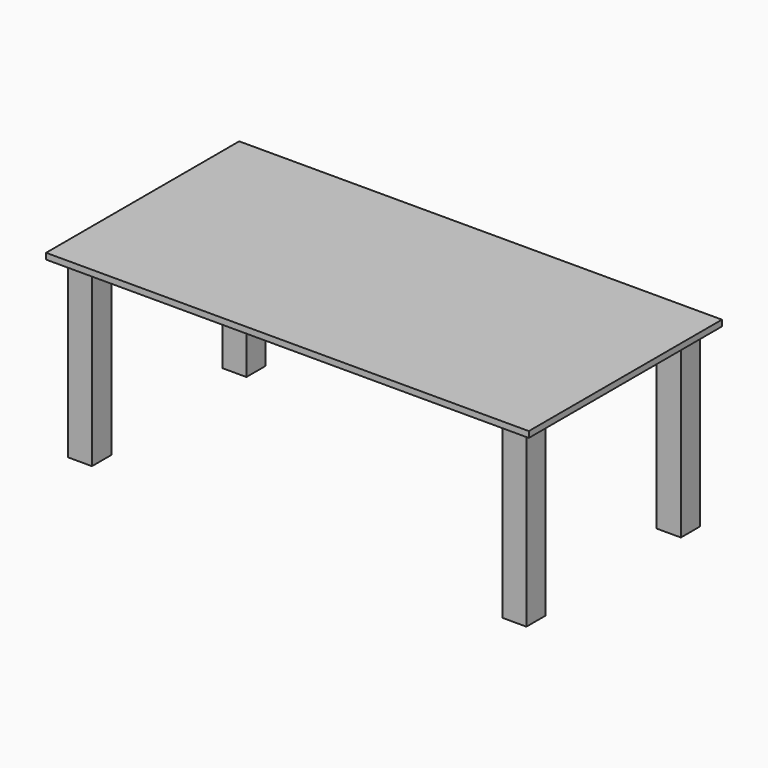
from build123d import *

# Parameters (mm, degrees)
F0_W     = 2000
F0_H     = 1000
F1_DEPTH = 25
F2_W     = 100
F2_H     = 100
F3_DEPTH = 725


with BuildPart() as f1:
    # F0 (on Top) → F1 (new body)
    with BuildSketch(Plane.XY):
        with Locations((719.687551, -103.809536)):
            Rectangle(F0_W, F0_H)
    extrude(amount=F1_DEPTH)

    # F2 (on face) → F3 (join)
    with BuildSketch(Plane(origin=(0, 0, 0), x_dir=(1, 0, 0), z_dir=(0, 0, -1))):
        with Locations((-180.312449, 503.809536)):
            Rectangle(F2_W, F2_H)
        with Locations((-180.312449, -296.190464)):
            Rectangle(F2_W, F2_H)
        with Locations((1619.687551, 503.809536)):
            Rectangle(F2_W, F2_H)
        with Locations((1619.687551, -296.190464)):
            Rectangle(F2_W, F2_H)
    extrude(amount=F3_DEPTH)


solid = f1.part
